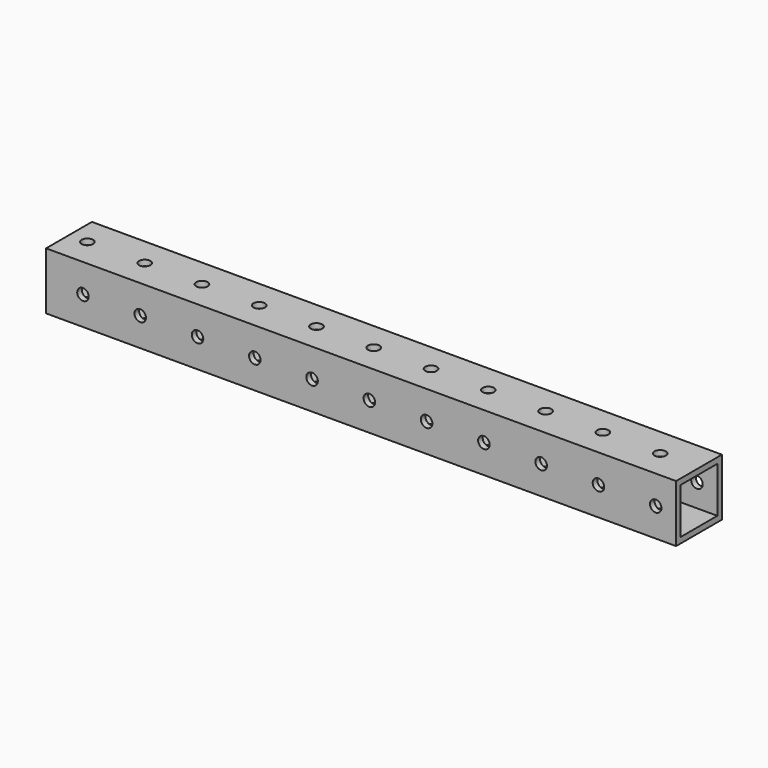
from build123d import *

# Parameters (mm, degrees)
F0_W     = 279.4
F0_H     = 25.4
F1_DEPTH = 25.4
F2_W     = 20.32
F2_H     = 20.32
F3_DEPTH = 279.4
F6_D     = 5.1054
F7_D     = 5.1054


with BuildPart() as f1:
    # F0 (on Top) → F1 (new body)
    with BuildSketch(Plane.XY):
        with Locations((-11.921439, -12.341175)):
            Rectangle(F0_W, F0_H)
    extrude(amount=F1_DEPTH)

    # F2 (on face) → F3 (cut)
    with BuildSketch(Plane.YZ.offset(127.778561)):
        with Locations((-12.341175, 12.7)):
            Rectangle(F2_W, F2_H)
    extrude(amount=-F3_DEPTH, mode=Mode.SUBTRACT)

    # F6 (through all)
    with Locations(Plane(origin=(0, 0.358825, 0), x_dir=(-1, 0, 0), z_dir=(0, 1, 0))):
        with Locations((8.260708, 12.7), (135.260708, 12.7), (-93.339292, 12.7), (109.860708, 12.7), (-17.139292, 12.7), (-67.939292, 12.7), (33.660708, 12.7), (-118.739292, 12.7), (-42.539292, 12.7), (59.060708, 12.7), (84.460708, 12.7)):
            Hole(F6_D / 2)

    # F7 (through all)
    with Locations(Plane.XY.offset(25.4)):
        with Locations((34.336239, -12.341175), (-92.663761, -12.341175), (-16.463761, -12.341175), (-41.863761, -12.341175), (8.936239, -12.341175), (59.736239, -12.341175), (-67.263761, -12.341175), (-143.463761, -12.341175), (-118.063761, -12.341175), (85.136239, -12.341175), (110.536239, -12.341175)):
            Hole(F7_D / 2)


solid = f1.part
